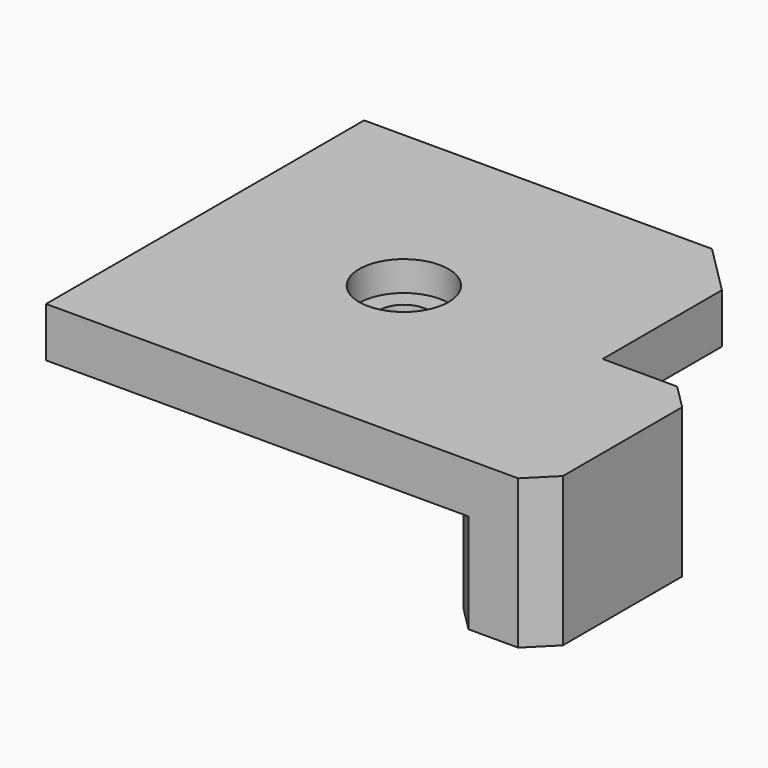
from build123d import *

# Parameters (mm, degrees)
F0_W           = 6.3491229296
F0_H           = 12.7
F1_DEPTH       = 3.175
F2_W           = 6.3491229296
F2_H           = 12.7
F3_DEPTH       = 6.35
F5_D           = 3.175
F5_CBORE_D     = 5.715
F5_CBORE_DEPTH = 1.905
F6_SIZE        = 3.175
F7_SIZE        = 1.5875
F8_SIZE        = 1.5875
F9_SIZE        = 1.5875
F10_SIZE       = 1.5875


with BuildPart() as f1:
    # F0 (on Top) → F1 (new body)
    with BuildSketch(Plane.XY):
        with Locations((15.8745614648, -6.35)):
            Rectangle(F0_W, F0_H)
        Polygon((12.7, 0), (12.7, 12.7), (-12.7, 12.7), (-12.7, -12.7), (12.7, -12.7), align=None)
    extrude(amount=-F1_DEPTH)

    # F2 (on face) → F3 (join)
    with BuildSketch(Plane(origin=(0, 0, -3.175), x_dir=(1, 0, 0), z_dir=(0, 0, -1))):
        with Locations((15.8745614648, 6.35)):
            Rectangle(F2_W, F2_H)
    extrude(amount=F3_DEPTH)

    # F5 (through all)
    with Locations(Plane.XY):
        with Locations((0, 0)):
            CounterBoreHole(F5_D / 2, F5_CBORE_D / 2, F5_CBORE_DEPTH)

    # F6
    f6_edges = [f1.edges().sort_by_distance(p)[0] for p in [
        (12.7, 12.7, -1.5875),
    ]]
    chamfer(f6_edges, length=F6_SIZE)

    # F7
    f7_edges = [f1.edges().sort_by_distance(p)[0] for p in [
        (19.049123, 0, -4.7625),
    ]]
    chamfer(f7_edges, length=F7_SIZE)

    # F8
    f8_edges = [f1.edges().sort_by_distance(p)[0] for p in [
        (19.049123, -12.7, -4.7625),
    ]]
    chamfer(f8_edges, length=F8_SIZE)

    # F9
    f9_edges = [f1.edges().sort_by_distance(p)[0] for p in [
        (12.7, 0, -6.35),
    ]]
    chamfer(f9_edges, length=F9_SIZE)

    # F10
    f10_edges = [f1.edges().sort_by_distance(p)[0] for p in [
        (12.7, -12.7, -6.35),
    ]]
    chamfer(f10_edges, length=F10_SIZE)


solid = f1.part
